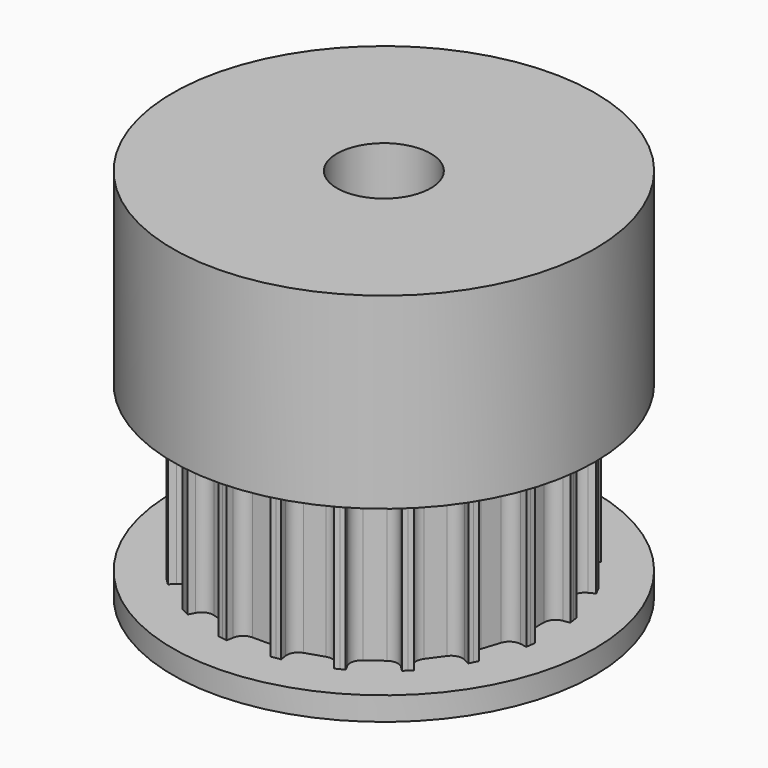
from build123d import *

# Parameters (mm, degrees)
F1_DEPTH = 3.5
F2_COUNT = 20
F3_R     = 9
F4_DEPTH = 1
F5_R     = 9
F6_DEPTH = 8
F8_D     = 4


with BuildPart() as f1:
    # F0 (on Top) → F1 (new body, symmetric)
    with BuildSketch(Plane.XY):
        with BuildLine():
            Line((-1.1357142162, 7.1706173527), (0, 0))
            Line((0, 0), (1.1357142162, 7.1706173527))
            Line((1.1357142162, 7.1706173527), (0.9381765481, 7.2019042457))
            Line((0.9381765481, 7.2019042457), (0.9377455173, 7.1991828248))
            Line((0.9377455173, 7.1991828248), (0.8938096645, 6.9217827675))
            ThreePointArc((0.8938096645, 6.9217827675), (0.7246895184, 6.6197970172), (0.3999654942, 6.5))
            Line((0.3999654942, 6.5), (0, 6.5))
            Line((0, 6.5), (-0.3999654942, 6.5))
            ThreePointArc((-0.3999654942, 6.5), (-0.7246895184, 6.6197970172), (-0.8938096645, 6.9217827675))
            Line((-0.8938096645, 6.9217827675), (-0.9381765481, 7.2019042457))
            Line((-0.9381765481, 7.2019042457), (-1.1357142162, 7.1706173527))
        make_face()
    extrude(amount=F1_DEPTH, both=True)

    # F2: F1 ×20 about axis
    f2_axis = Axis((0, 0, 0), (0, 0, -1))


with BuildPart() as f1_1:
    add(f1.part)
    for i in range(1, F2_COUNT):
        add(f1.part.rotate(f2_axis, i * 360 / F2_COUNT))

    # F3 (on face) → F4 (join)
    with BuildSketch(Plane(origin=(0, 0, -3.5), x_dir=(1, 0, 0), z_dir=(0, 0, -1))):
        Circle(F3_R)
        with BuildLine():
            Line((-0.9381765481, -7.2019042457), (-1.3332518843, -7.1393304597))
            Line((-1.3332518843, -7.1393304597), (-1.2888850008, -6.8592089815))
            ThreePointArc((-1.2888850008, -6.8592089815), (-1.3564090889, -6.5197424666), (-1.6282206739, -6.3054634908))
            Line((-1.6282206739, -6.3054634908), (-2.389000253, -6.058271221))
            ThreePointArc((-2.389000253, -6.058271221), (-2.7348504664, -6.0718597129), (-2.9890120123, -6.3068042293))
            Line((-2.9890120123, -6.3068042293), (-3.1177697233, -6.5595054656))
            Line((-3.1177697233, -6.5595054656), (-3.4741723329, -6.3779092657))
            Line((-3.4741723329, -6.3779092657), (-3.345414622, -6.1252080294))
            ThreePointArc((-3.345414622, -6.1252080294), (-3.3047329239, -5.7814900976), (-3.4970252579, -5.4937042824))
            Line((-3.4970252579, -5.4937042824), (-4.1441830219, -5.0235166445))
            ThreePointArc((-4.1441830219, -5.0235166445), (-4.4773051959, -4.9295664748), (-4.7916290386, -5.0744717511))
            Line((-4.7916290386, -5.0744717511), (-4.9921738752, -5.2750165877))
            Line((-4.9921738752, -5.2750165877), (-5.2750165877, -4.9921738752))
            Line((-5.2750165877, -4.9921738752), (-5.0744717511, -4.7916290386))
            ThreePointArc((-5.0744717511, -4.7916290386), (-4.9295664748, -4.4773051959), (-5.0235166445, -4.1441830219))
            Line((-5.0235166445, -4.1441830219), (-5.4937042824, -3.4970252579))
            ThreePointArc((-5.4937042824, -3.4970252579), (-5.7814900976, -3.3047329239), (-6.1252080294, -3.345414622))
            Line((-6.1252080294, -3.345414622), (-6.3779092657, -3.4741723329))
            Line((-6.3779092657, -3.4741723329), (-6.5595054656, -3.1177697233))
            Line((-6.5595054656, -3.1177697233), (-6.3068042293, -2.9890120123))
            ThreePointArc((-6.3068042293, -2.9890120123), (-6.0718597129, -2.7348504664), (-6.058271221, -2.389000253))
            Line((-6.058271221, -2.389000253), (-6.3054634908, -1.6282206739))
            ThreePointArc((-6.3054634908, -1.6282206739), (-6.5197424666, -1.3564090889), (-6.8592089815, -1.2888850008))
            Line((-6.8592089815, -1.2888850008), (-7.1393304597, -1.3332518843))
            Line((-7.1393304597, -1.3332518843), (-7.2019042457, -0.9381765481))
            Line((-7.2019042457, -0.9381765481), (-6.9217827675, -0.8938096645))
            ThreePointArc((-6.9217827675, -0.8938096645), (-6.6197970172, -0.7246895184), (-6.5, -0.3999654942))
            Line((-6.5, -0.3999654942), (-6.5, 0.3999654942))
            ThreePointArc((-6.5, 0.3999654942), (-6.6197970172, 0.7246895184), (-6.9217827675, 0.8938096645))
            Line((-6.9217827675, 0.8938096645), (-7.2019042457, 0.9381765481))
            Line((-7.2019042457, 0.9381765481), (-7.1393304597, 1.3332518843))
            Line((-7.1393304597, 1.3332518843), (-6.8592089815, 1.2888850008))
            ThreePointArc((-6.8592089815, 1.2888850008), (-6.5197424666, 1.3564090889), (-6.3054634908, 1.6282206739))
            Line((-6.3054634908, 1.6282206739), (-6.058271221, 2.389000253))
            ThreePointArc((-6.058271221, 2.389000253), (-6.0718597129, 2.7348504664), (-6.3068042293, 2.9890120123))
            Line((-6.3068042293, 2.9890120123), (-6.5595054656, 3.1177697233))
            Line((-6.5595054656, 3.1177697233), (-6.3779092657, 3.4741723329))
            Line((-6.3779092657, 3.4741723329), (-6.1252080294, 3.345414622))
            ThreePointArc((-6.1252080294, 3.345414622), (-5.7814900976, 3.3047329239), (-5.4937042824, 3.4970252579))
            Line((-5.4937042824, 3.4970252579), (-5.0235166445, 4.1441830219))
            ThreePointArc((-5.0235166445, 4.1441830219), (-4.9295664748, 4.4773051959), (-5.0744717511, 4.7916290386))
            Line((-5.0744717511, 4.7916290386), (-5.2750165877, 4.9921738752))
            Line((-5.2750165877, 4.9921738752), (-4.9921738752, 5.2750165877))
            Line((-4.9921738752, 5.2750165877), (-4.7916290386, 5.0744717511))
            ThreePointArc((-4.7916290386, 5.0744717511), (-4.4773051959, 4.9295664748), (-4.1441830219, 5.0235166445))
            Line((-4.1441830219, 5.0235166445), (-3.4970252579, 5.4937042824))
            ThreePointArc((-3.4970252579, 5.4937042824), (-3.3047329239, 5.7814900976), (-3.345414622, 6.1252080294))
            Line((-3.345414622, 6.1252080294), (-3.4741723329, 6.3779092657))
            Line((-3.4741723329, 6.3779092657), (-3.1177697233, 6.5595054656))
            Line((-3.1177697233, 6.5595054656), (-2.9890120123, 6.3068042293))
            ThreePointArc((-2.9890120123, 6.3068042293), (-2.7348504664, 6.0718597129), (-2.389000253, 6.058271221))
            Line((-2.389000253, 6.058271221), (-1.6282206739, 6.3054634908))
            ThreePointArc((-1.6282206739, 6.3054634908), (-1.3564090889, 6.5197424666), (-1.2888850008, 6.8592089815))
            Line((-1.2888850008, 6.8592089815), (-1.3332518843, 7.1393304597))
            Line((-1.3332518843, 7.1393304597), (-0.9381765481, 7.2019042457))
            Line((-0.9381765481, 7.2019042457), (-0.8938096645, 6.9217827675))
            ThreePointArc((-0.8938096645, 6.9217827675), (-0.7246895184, 6.6197970172), (-0.3999654942, 6.5))
            Line((-0.3999654942, 6.5), (0.3999654942, 6.5))
            ThreePointArc((0.3999654942, 6.5), (0.7246895184, 6.6197970172), (0.8938096645, 6.9217827675))
            Line((0.8938096645, 6.9217827675), (0.9381765481, 7.2019042457))
            Line((0.9381765481, 7.2019042457), (1.3332518843, 7.1393304597))
            Line((1.3332518843, 7.1393304597), (1.2888850008, 6.8592089815))
            ThreePointArc((1.2888850008, 6.8592089815), (1.3564090889, 6.5197424666), (1.6282206739, 6.3054634908))
            Line((1.6282206739, 6.3054634908), (2.389000253, 6.058271221))
            ThreePointArc((2.389000253, 6.058271221), (2.7348504664, 6.0718597129), (2.9890120123, 6.3068042293))
            Line((2.9890120123, 6.3068042293), (3.1177697233, 6.5595054656))
            Line((3.1177697233, 6.5595054656), (3.4741723329, 6.3779092657))
            Line((3.4741723329, 6.3779092657), (3.345414622, 6.1252080294))
            ThreePointArc((3.345414622, 6.1252080294), (3.3047329239, 5.7814900976), (3.4970252579, 5.4937042824))
            Line((3.4970252579, 5.4937042824), (4.1441830219, 5.0235166445))
            ThreePointArc((4.1441830219, 5.0235166445), (4.4773051959, 4.9295664748), (4.7916290386, 5.0744717511))
            Line((4.7916290386, 5.0744717511), (4.9921738752, 5.2750165877))
            Line((4.9921738752, 5.2750165877), (5.2750165877, 4.9921738752))
            Line((5.2750165877, 4.9921738752), (5.0744717511, 4.7916290386))
            ThreePointArc((5.0744717511, 4.7916290386), (4.9295664748, 4.4773051959), (5.0235166445, 4.1441830219))
            Line((5.0235166445, 4.1441830219), (5.4937042824, 3.4970252579))
            ThreePointArc((5.4937042824, 3.4970252579), (5.7814900976, 3.3047329239), (6.1252080294, 3.345414622))
            Line((6.1252080294, 3.345414622), (6.3779092657, 3.4741723329))
            Line((6.3779092657, 3.4741723329), (6.5595054656, 3.1177697233))
            Line((6.5595054656, 3.1177697233), (6.3068042293, 2.9890120123))
            ThreePointArc((6.3068042293, 2.9890120123), (6.0718597129, 2.7348504664), (6.058271221, 2.389000253))
            Line((6.058271221, 2.389000253), (6.3054634908, 1.6282206739))
            ThreePointArc((6.3054634908, 1.6282206739), (6.5197424666, 1.3564090889), (6.8592089815, 1.2888850008))
            Line((6.8592089815, 1.2888850008), (7.1393304597, 1.3332518843))
            Line((7.1393304597, 1.3332518843), (7.2019042457, 0.9381765481))
            Line((7.2019042457, 0.9381765481), (6.9217827675, 0.8938096645))
            ThreePointArc((6.9217827675, 0.8938096645), (6.6197970172, 0.7246895184), (6.5, 0.3999654942))
            Line((6.5, 0.3999654942), (6.5, -0.3999654942))
            ThreePointArc((6.5, -0.3999654942), (6.6197970172, -0.7246895184), (6.9217827675, -0.8938096645))
            Line((6.9217827675, -0.8938096645), (7.2019042457, -0.9381765481))
            Line((7.2019042457, -0.9381765481), (7.1393304597, -1.3332518843))
            Line((7.1393304597, -1.3332518843), (6.8592089815, -1.2888850008))
            ThreePointArc((6.8592089815, -1.2888850008), (6.5197424666, -1.3564090889), (6.3054634908, -1.6282206739))
            Line((6.3054634908, -1.6282206739), (6.058271221, -2.389000253))
            ThreePointArc((6.058271221, -2.389000253), (6.0718597129, -2.7348504664), (6.3068042293, -2.9890120123))
            Line((6.3068042293, -2.9890120123), (6.5595054656, -3.1177697233))
            Line((6.5595054656, -3.1177697233), (6.3779092657, -3.4741723329))
            Line((6.3779092657, -3.4741723329), (6.1252080294, -3.345414622))
            ThreePointArc((6.1252080294, -3.345414622), (5.7814900976, -3.3047329239), (5.4937042824, -3.4970252579))
            Line((5.4937042824, -3.4970252579), (5.0235166445, -4.1441830219))
            ThreePointArc((5.0235166445, -4.1441830219), (4.9295664748, -4.4773051959), (5.0744717511, -4.7916290386))
            Line((5.0744717511, -4.7916290386), (5.2750165877, -4.9921738752))
            Line((5.2750165877, -4.9921738752), (4.9921738752, -5.2750165877))
            Line((4.9921738752, -5.2750165877), (4.7916290386, -5.0744717511))
            ThreePointArc((4.7916290386, -5.0744717511), (4.4773051959, -4.9295664748), (4.1441830219, -5.0235166445))
            Line((4.1441830219, -5.0235166445), (3.4970252579, -5.4937042824))
            ThreePointArc((3.4970252579, -5.4937042824), (3.3047329239, -5.7814900976), (3.345414622, -6.1252080294))
            Line((3.345414622, -6.1252080294), (3.4741723329, -6.3779092657))
            Line((3.4741723329, -6.3779092657), (3.1177697233, -6.5595054656))
            Line((3.1177697233, -6.5595054656), (2.9890120123, -6.3068042293))
            ThreePointArc((2.9890120123, -6.3068042293), (2.7348504664, -6.0718597129), (2.389000253, -6.058271221))
            Line((2.389000253, -6.058271221), (1.6282206739, -6.3054634908))
            ThreePointArc((1.6282206739, -6.3054634908), (1.3564090889, -6.5197424666), (1.2888850008, -6.8592089815))
            Line((1.2888850008, -6.8592089815), (1.3332518843, -7.1393304597))
            Line((1.3332518843, -7.1393304597), (0.9381765481, -7.2019042457))
            Line((0.9381765481, -7.2019042457), (0.8938096645, -6.9217827675))
            ThreePointArc((0.8938096645, -6.9217827675), (0.7246895184, -6.6197970172), (0.3999654942, -6.5))
            Line((0.3999654942, -6.5), (-0.3999654942, -6.5))
            ThreePointArc((-0.3999654942, -6.5), (-0.7246895184, -6.6197970172), (-0.8938096645, -6.9217827675))
            Line((-0.8938096645, -6.9217827675), (-0.9381765481, -7.2019042457))
        make_face(mode=Mode.SUBTRACT)
        with BuildLine():
            Line((-1.2888850008, -6.8592089815), (-1.3332518843, -7.1393304597))
            Line((-1.3332518843, -7.1393304597), (-0.9381765481, -7.2019042457))
            Line((-0.9381765481, -7.2019042457), (-0.8938096645, -6.9217827675))
            ThreePointArc((-0.8938096645, -6.9217827675), (-0.7246895184, -6.6197970172), (-0.3999654942, -6.5))
            Line((-0.3999654942, -6.5), (0.3999654942, -6.5))
            ThreePointArc((0.3999654942, -6.5), (0.7246895184, -6.6197970172), (0.8938096645, -6.9217827675))
            Line((0.8938096645, -6.9217827675), (0.9381765481, -7.2019042457))
            Line((0.9381765481, -7.2019042457), (1.3332518843, -7.1393304597))
            Line((1.3332518843, -7.1393304597), (1.2888850008, -6.8592089815))
            ThreePointArc((1.2888850008, -6.8592089815), (1.3564090889, -6.5197424666), (1.6282206739, -6.3054634908))
            Line((1.6282206739, -6.3054634908), (2.389000253, -6.058271221))
            ThreePointArc((2.389000253, -6.058271221), (2.7348504664, -6.0718597129), (2.9890120123, -6.3068042293))
            Line((2.9890120123, -6.3068042293), (3.1177697233, -6.5595054656))
            Line((3.1177697233, -6.5595054656), (3.4741723329, -6.3779092657))
            Line((3.4741723329, -6.3779092657), (3.345414622, -6.1252080294))
            ThreePointArc((3.345414622, -6.1252080294), (3.3047329239, -5.7814900976), (3.4970252579, -5.4937042824))
            Line((3.4970252579, -5.4937042824), (4.1441830219, -5.0235166445))
            ThreePointArc((4.1441830219, -5.0235166445), (4.4773051959, -4.9295664748), (4.7916290386, -5.0744717511))
            Line((4.7916290386, -5.0744717511), (4.9921738752, -5.2750165877))
            Line((4.9921738752, -5.2750165877), (5.2750165877, -4.9921738752))
            Line((5.2750165877, -4.9921738752), (5.0744717511, -4.7916290386))
            ThreePointArc((5.0744717511, -4.7916290386), (4.9295664748, -4.4773051959), (5.0235166445, -4.1441830219))
            Line((5.0235166445, -4.1441830219), (5.4937042824, -3.4970252579))
            ThreePointArc((5.4937042824, -3.4970252579), (5.7814900976, -3.3047329239), (6.1252080294, -3.345414622))
            Line((6.1252080294, -3.345414622), (6.3779092657, -3.4741723329))
            Line((6.3779092657, -3.4741723329), (6.5595054656, -3.1177697233))
            Line((6.5595054656, -3.1177697233), (6.3068042293, -2.9890120123))
            ThreePointArc((6.3068042293, -2.9890120123), (6.0718597129, -2.7348504664), (6.058271221, -2.389000253))
            Line((6.058271221, -2.389000253), (6.3054634908, -1.6282206739))
            ThreePointArc((6.3054634908, -1.6282206739), (6.5197424666, -1.3564090889), (6.8592089815, -1.2888850008))
            Line((6.8592089815, -1.2888850008), (7.1393304597, -1.3332518843))
            Line((7.1393304597, -1.3332518843), (7.2019042457, -0.9381765481))
            Line((7.2019042457, -0.9381765481), (6.9217827675, -0.8938096645))
            ThreePointArc((6.9217827675, -0.8938096645), (6.6197970172, -0.7246895184), (6.5, -0.3999654942))
            Line((6.5, -0.3999654942), (6.5, 0.3999654942))
            ThreePointArc((6.5, 0.3999654942), (6.6197970172, 0.7246895184), (6.9217827675, 0.8938096645))
            Line((6.9217827675, 0.8938096645), (7.2019042457, 0.9381765481))
            Line((7.2019042457, 0.9381765481), (7.1393304597, 1.3332518843))
            Line((7.1393304597, 1.3332518843), (6.8592089815, 1.2888850008))
            ThreePointArc((6.8592089815, 1.2888850008), (6.5197424666, 1.3564090889), (6.3054634908, 1.6282206739))
            Line((6.3054634908, 1.6282206739), (6.058271221, 2.389000253))
            ThreePointArc((6.058271221, 2.389000253), (6.0718597129, 2.7348504664), (6.3068042293, 2.9890120123))
            Line((6.3068042293, 2.9890120123), (6.5595054656, 3.1177697233))
            Line((6.5595054656, 3.1177697233), (6.3779092657, 3.4741723329))
            Line((6.3779092657, 3.4741723329), (6.1252080294, 3.345414622))
            ThreePointArc((6.1252080294, 3.345414622), (5.7814900976, 3.3047329239), (5.4937042824, 3.4970252579))
            Line((5.4937042824, 3.4970252579), (5.0235166445, 4.1441830219))
            ThreePointArc((5.0235166445, 4.1441830219), (4.9295664748, 4.4773051959), (5.0744717511, 4.7916290386))
            Line((5.0744717511, 4.7916290386), (5.2750165877, 4.9921738752))
            Line((5.2750165877, 4.9921738752), (4.9921738752, 5.2750165877))
            Line((4.9921738752, 5.2750165877), (4.7916290386, 5.0744717511))
            ThreePointArc((4.7916290386, 5.0744717511), (4.4773051959, 4.9295664748), (4.1441830219, 5.0235166445))
            Line((4.1441830219, 5.0235166445), (3.4970252579, 5.4937042824))
            ThreePointArc((3.4970252579, 5.4937042824), (3.3047329239, 5.7814900976), (3.345414622, 6.1252080294))
            Line((3.345414622, 6.1252080294), (3.4741723329, 6.3779092657))
            Line((3.4741723329, 6.3779092657), (3.1177697233, 6.5595054656))
            Line((3.1177697233, 6.5595054656), (2.9890120123, 6.3068042293))
            ThreePointArc((2.9890120123, 6.3068042293), (2.7348504664, 6.0718597129), (2.389000253, 6.058271221))
            Line((2.389000253, 6.058271221), (1.6282206739, 6.3054634908))
            ThreePointArc((1.6282206739, 6.3054634908), (1.3564090889, 6.5197424666), (1.2888850008, 6.8592089815))
            Line((1.2888850008, 6.8592089815), (1.3332518843, 7.1393304597))
            Line((1.3332518843, 7.1393304597), (0.9381765481, 7.2019042457))
            Line((0.9381765481, 7.2019042457), (0.8938096645, 6.9217827675))
            ThreePointArc((0.8938096645, 6.9217827675), (0.7246895184, 6.6197970172), (0.3999654942, 6.5))
            Line((0.3999654942, 6.5), (-0.3999654942, 6.5))
            ThreePointArc((-0.3999654942, 6.5), (-0.7246895184, 6.6197970172), (-0.8938096645, 6.9217827675))
            Line((-0.8938096645, 6.9217827675), (-0.9381765481, 7.2019042457))
            Line((-0.9381765481, 7.2019042457), (-1.3332518843, 7.1393304597))
            Line((-1.3332518843, 7.1393304597), (-1.2888850008, 6.8592089815))
            ThreePointArc((-1.2888850008, 6.8592089815), (-1.3564090889, 6.5197424666), (-1.6282206739, 6.3054634908))
            Line((-1.6282206739, 6.3054634908), (-2.389000253, 6.058271221))
            ThreePointArc((-2.389000253, 6.058271221), (-2.7348504664, 6.0718597129), (-2.9890120123, 6.3068042293))
            Line((-2.9890120123, 6.3068042293), (-3.1177697233, 6.5595054656))
            Line((-3.1177697233, 6.5595054656), (-3.4741723329, 6.3779092657))
            Line((-3.4741723329, 6.3779092657), (-3.345414622, 6.1252080294))
            ThreePointArc((-3.345414622, 6.1252080294), (-3.3047329239, 5.7814900976), (-3.4970252579, 5.4937042824))
            Line((-3.4970252579, 5.4937042824), (-4.1441830219, 5.0235166445))
            ThreePointArc((-4.1441830219, 5.0235166445), (-4.4773051959, 4.9295664748), (-4.7916290386, 5.0744717511))
            Line((-4.7916290386, 5.0744717511), (-4.9921738752, 5.2750165877))
            Line((-4.9921738752, 5.2750165877), (-5.2750165877, 4.9921738752))
            Line((-5.2750165877, 4.9921738752), (-5.0744717511, 4.7916290386))
            ThreePointArc((-5.0744717511, 4.7916290386), (-4.9295664748, 4.4773051959), (-5.0235166445, 4.1441830219))
            Line((-5.0235166445, 4.1441830219), (-5.4937042824, 3.4970252579))
            ThreePointArc((-5.4937042824, 3.4970252579), (-5.7814900976, 3.3047329239), (-6.1252080294, 3.345414622))
            Line((-6.1252080294, 3.345414622), (-6.3779092657, 3.4741723329))
            Line((-6.3779092657, 3.4741723329), (-6.5595054656, 3.1177697233))
            Line((-6.5595054656, 3.1177697233), (-6.3068042293, 2.9890120123))
            ThreePointArc((-6.3068042293, 2.9890120123), (-6.0718597129, 2.7348504664), (-6.058271221, 2.389000253))
            Line((-6.058271221, 2.389000253), (-6.3054634908, 1.6282206739))
            ThreePointArc((-6.3054634908, 1.6282206739), (-6.5197424666, 1.3564090889), (-6.8592089815, 1.2888850008))
            Line((-6.8592089815, 1.2888850008), (-7.1393304597, 1.3332518843))
            Line((-7.1393304597, 1.3332518843), (-7.2019042457, 0.9381765481))
            Line((-7.2019042457, 0.9381765481), (-6.9217827675, 0.8938096645))
            ThreePointArc((-6.9217827675, 0.8938096645), (-6.6197970172, 0.7246895184), (-6.5, 0.3999654942))
            Line((-6.5, 0.3999654942), (-6.5, -0.3999654942))
            ThreePointArc((-6.5, -0.3999654942), (-6.6197970172, -0.7246895184), (-6.9217827675, -0.8938096645))
            Line((-6.9217827675, -0.8938096645), (-7.2019042457, -0.9381765481))
            Line((-7.2019042457, -0.9381765481), (-7.1393304597, -1.3332518843))
            Line((-7.1393304597, -1.3332518843), (-6.8592089815, -1.2888850008))
            ThreePointArc((-6.8592089815, -1.2888850008), (-6.5197424666, -1.3564090889), (-6.3054634908, -1.6282206739))
            Line((-6.3054634908, -1.6282206739), (-6.058271221, -2.389000253))
            ThreePointArc((-6.058271221, -2.389000253), (-6.0718597129, -2.7348504664), (-6.3068042293, -2.9890120123))
            Line((-6.3068042293, -2.9890120123), (-6.5595054656, -3.1177697233))
            Line((-6.5595054656, -3.1177697233), (-6.3779092657, -3.4741723329))
            Line((-6.3779092657, -3.4741723329), (-6.1252080294, -3.345414622))
            ThreePointArc((-6.1252080294, -3.345414622), (-5.7814900976, -3.3047329239), (-5.4937042824, -3.4970252579))
            Line((-5.4937042824, -3.4970252579), (-5.0235166445, -4.1441830219))
            ThreePointArc((-5.0235166445, -4.1441830219), (-4.9295664748, -4.4773051959), (-5.0744717511, -4.7916290386))
            Line((-5.0744717511, -4.7916290386), (-5.2750165877, -4.9921738752))
            Line((-5.2750165877, -4.9921738752), (-4.9921738752, -5.2750165877))
            Line((-4.9921738752, -5.2750165877), (-4.7916290386, -5.0744717511))
            ThreePointArc((-4.7916290386, -5.0744717511), (-4.4773051959, -4.9295664748), (-4.1441830219, -5.0235166445))
            Line((-4.1441830219, -5.0235166445), (-3.4970252579, -5.4937042824))
            ThreePointArc((-3.4970252579, -5.4937042824), (-3.3047329239, -5.7814900976), (-3.345414622, -6.1252080294))
            Line((-3.345414622, -6.1252080294), (-3.4741723329, -6.3779092657))
            Line((-3.4741723329, -6.3779092657), (-3.1177697233, -6.5595054656))
            Line((-3.1177697233, -6.5595054656), (-2.9890120123, -6.3068042293))
            ThreePointArc((-2.9890120123, -6.3068042293), (-2.7348504664, -6.0718597129), (-2.389000253, -6.058271221))
            Line((-2.389000253, -6.058271221), (-1.6282206739, -6.3054634908))
            ThreePointArc((-1.6282206739, -6.3054634908), (-1.3564090889, -6.5197424666), (-1.2888850008, -6.8592089815))
        make_face()
    extrude(amount=F4_DEPTH)

    # F5 (on face) → F6 (join)
    with BuildSketch(Plane.XY.offset(3.5)):
        Circle(F5_R)
        with BuildLine():
            Line((-1.3332518843, 7.1393304597), (-0.9381765481, 7.2019042457))
            Line((-0.9381765481, 7.2019042457), (-0.8938096645, 6.9217827675))
            ThreePointArc((-0.8938096645, 6.9217827675), (-0.7246895184, 6.6197970172), (-0.3999654942, 6.5))
            Line((-0.3999654942, 6.5), (0.3999654942, 6.5))
            ThreePointArc((0.3999654942, 6.5), (0.7246895184, 6.6197970172), (0.8938096645, 6.9217827675))
            Line((0.8938096645, 6.9217827675), (0.9381765481, 7.2019042457))
            Line((0.9381765481, 7.2019042457), (1.3332518843, 7.1393304597))
            Line((1.3332518843, 7.1393304597), (1.2888850008, 6.8592089815))
            ThreePointArc((1.2888850008, 6.8592089815), (1.3564090889, 6.5197424666), (1.6282206739, 6.3054634908))
            Line((1.6282206739, 6.3054634908), (2.389000253, 6.058271221))
            ThreePointArc((2.389000253, 6.058271221), (2.7348504664, 6.0718597129), (2.9890120123, 6.3068042293))
            Line((2.9890120123, 6.3068042293), (3.1177697233, 6.5595054656))
            Line((3.1177697233, 6.5595054656), (3.4741723329, 6.3779092657))
            Line((3.4741723329, 6.3779092657), (3.345414622, 6.1252080294))
            ThreePointArc((3.345414622, 6.1252080294), (3.3047329239, 5.7814900976), (3.4970252579, 5.4937042824))
            Line((3.4970252579, 5.4937042824), (4.1441830219, 5.0235166445))
            ThreePointArc((4.1441830219, 5.0235166445), (4.4773051959, 4.9295664748), (4.7916290386, 5.0744717511))
            Line((4.7916290386, 5.0744717511), (4.9921738752, 5.2750165877))
            Line((4.9921738752, 5.2750165877), (5.2750165877, 4.9921738752))
            Line((5.2750165877, 4.9921738752), (5.0744717511, 4.7916290386))
            ThreePointArc((5.0744717511, 4.7916290386), (4.9295664748, 4.4773051959), (5.0235166445, 4.1441830219))
            Line((5.0235166445, 4.1441830219), (5.4937042824, 3.4970252579))
            ThreePointArc((5.4937042824, 3.4970252579), (5.7814900976, 3.3047329239), (6.1252080294, 3.345414622))
            Line((6.1252080294, 3.345414622), (6.3779092657, 3.4741723329))
            Line((6.3779092657, 3.4741723329), (6.5595054656, 3.1177697233))
            Line((6.5595054656, 3.1177697233), (6.3068042293, 2.9890120123))
            ThreePointArc((6.3068042293, 2.9890120123), (6.0718597129, 2.7348504664), (6.058271221, 2.389000253))
            Line((6.058271221, 2.389000253), (6.3054634908, 1.6282206739))
            ThreePointArc((6.3054634908, 1.6282206739), (6.5197424666, 1.3564090889), (6.8592089815, 1.2888850008))
            Line((6.8592089815, 1.2888850008), (7.1393304597, 1.3332518843))
            Line((7.1393304597, 1.3332518843), (7.2019042457, 0.9381765481))
            Line((7.2019042457, 0.9381765481), (6.9217827675, 0.8938096645))
            ThreePointArc((6.9217827675, 0.8938096645), (6.6197970172, 0.7246895184), (6.5, 0.3999654942))
            Line((6.5, 0.3999654942), (6.5, -0.3999654942))
            ThreePointArc((6.5, -0.3999654942), (6.6197970172, -0.7246895184), (6.9217827675, -0.8938096645))
            Line((6.9217827675, -0.8938096645), (7.2019042457, -0.9381765481))
            Line((7.2019042457, -0.9381765481), (7.1393304597, -1.3332518843))
            Line((7.1393304597, -1.3332518843), (6.8592089815, -1.2888850008))
            ThreePointArc((6.8592089815, -1.2888850008), (6.5197424666, -1.3564090889), (6.3054634908, -1.6282206739))
            Line((6.3054634908, -1.6282206739), (6.058271221, -2.389000253))
            ThreePointArc((6.058271221, -2.389000253), (6.0718597129, -2.7348504664), (6.3068042293, -2.9890120123))
            Line((6.3068042293, -2.9890120123), (6.5595054656, -3.1177697233))
            Line((6.5595054656, -3.1177697233), (6.3779092657, -3.4741723329))
            Line((6.3779092657, -3.4741723329), (6.1252080294, -3.345414622))
            ThreePointArc((6.1252080294, -3.345414622), (5.7814900976, -3.3047329239), (5.4937042824, -3.4970252579))
            Line((5.4937042824, -3.4970252579), (5.0235166445, -4.1441830219))
            ThreePointArc((5.0235166445, -4.1441830219), (4.9295664748, -4.4773051959), (5.0744717511, -4.7916290386))
            Line((5.0744717511, -4.7916290386), (5.2750165877, -4.9921738752))
            Line((5.2750165877, -4.9921738752), (4.9921738752, -5.2750165877))
            Line((4.9921738752, -5.2750165877), (4.7916290386, -5.0744717511))
            ThreePointArc((4.7916290386, -5.0744717511), (4.4773051959, -4.9295664748), (4.1441830219, -5.0235166445))
            Line((4.1441830219, -5.0235166445), (3.4970252579, -5.4937042824))
            ThreePointArc((3.4970252579, -5.4937042824), (3.3047329239, -5.7814900976), (3.345414622, -6.1252080294))
            Line((3.345414622, -6.1252080294), (3.4741723329, -6.3779092657))
            Line((3.4741723329, -6.3779092657), (3.1177697233, -6.5595054656))
            Line((3.1177697233, -6.5595054656), (2.9890120123, -6.3068042293))
            ThreePointArc((2.9890120123, -6.3068042293), (2.7348504664, -6.0718597129), (2.389000253, -6.058271221))
            Line((2.389000253, -6.058271221), (1.6282206739, -6.3054634908))
            ThreePointArc((1.6282206739, -6.3054634908), (1.3564090889, -6.5197424666), (1.2888850008, -6.8592089815))
            Line((1.2888850008, -6.8592089815), (1.3332518843, -7.1393304597))
            Line((1.3332518843, -7.1393304597), (0.9381765481, -7.2019042457))
            Line((0.9381765481, -7.2019042457), (0.8938096645, -6.9217827675))
            ThreePointArc((0.8938096645, -6.9217827675), (0.7246895184, -6.6197970172), (0.3999654942, -6.5))
            Line((0.3999654942, -6.5), (-0.3999654942, -6.5))
            ThreePointArc((-0.3999654942, -6.5), (-0.7246895184, -6.6197970172), (-0.8938096645, -6.9217827675))
            Line((-0.8938096645, -6.9217827675), (-0.9381765481, -7.2019042457))
            Line((-0.9381765481, -7.2019042457), (-1.3332518843, -7.1393304597))
            Line((-1.3332518843, -7.1393304597), (-1.2888850008, -6.8592089815))
            ThreePointArc((-1.2888850008, -6.8592089815), (-1.3564090889, -6.5197424666), (-1.6282206739, -6.3054634908))
            Line((-1.6282206739, -6.3054634908), (-2.389000253, -6.058271221))
            ThreePointArc((-2.389000253, -6.058271221), (-2.7348504664, -6.0718597129), (-2.9890120123, -6.3068042293))
            Line((-2.9890120123, -6.3068042293), (-3.1177697233, -6.5595054656))
            Line((-3.1177697233, -6.5595054656), (-3.4741723329, -6.3779092657))
            Line((-3.4741723329, -6.3779092657), (-3.345414622, -6.1252080294))
            ThreePointArc((-3.345414622, -6.1252080294), (-3.3047329239, -5.7814900976), (-3.4970252579, -5.4937042824))
            Line((-3.4970252579, -5.4937042824), (-4.1441830219, -5.0235166445))
            ThreePointArc((-4.1441830219, -5.0235166445), (-4.4773051959, -4.9295664748), (-4.7916290386, -5.0744717511))
            Line((-4.7916290386, -5.0744717511), (-4.9921738752, -5.2750165877))
            Line((-4.9921738752, -5.2750165877), (-5.2750165877, -4.9921738752))
            Line((-5.2750165877, -4.9921738752), (-5.0744717511, -4.7916290386))
            ThreePointArc((-5.0744717511, -4.7916290386), (-4.9295664748, -4.4773051959), (-5.0235166445, -4.1441830219))
            Line((-5.0235166445, -4.1441830219), (-5.4937042824, -3.4970252579))
            ThreePointArc((-5.4937042824, -3.4970252579), (-5.7814900976, -3.3047329239), (-6.1252080294, -3.345414622))
            Line((-6.1252080294, -3.345414622), (-6.3779092657, -3.4741723329))
            Line((-6.3779092657, -3.4741723329), (-6.5595054656, -3.1177697233))
            Line((-6.5595054656, -3.1177697233), (-6.3068042293, -2.9890120123))
            ThreePointArc((-6.3068042293, -2.9890120123), (-6.0718597129, -2.7348504664), (-6.058271221, -2.389000253))
            Line((-6.058271221, -2.389000253), (-6.3054634908, -1.6282206739))
            ThreePointArc((-6.3054634908, -1.6282206739), (-6.5197424666, -1.3564090889), (-6.8592089815, -1.2888850008))
            Line((-6.8592089815, -1.2888850008), (-7.1393304597, -1.3332518843))
            Line((-7.1393304597, -1.3332518843), (-7.2019042457, -0.9381765481))
            Line((-7.2019042457, -0.9381765481), (-6.9217827675, -0.8938096645))
            ThreePointArc((-6.9217827675, -0.8938096645), (-6.6197970172, -0.7246895184), (-6.5, -0.3999654942))
            Line((-6.5, -0.3999654942), (-6.5, 0.3999654942))
            ThreePointArc((-6.5, 0.3999654942), (-6.6197970172, 0.7246895184), (-6.9217827675, 0.8938096645))
            Line((-6.9217827675, 0.8938096645), (-7.2019042457, 0.9381765481))
            Line((-7.2019042457, 0.9381765481), (-7.1393304597, 1.3332518843))
            Line((-7.1393304597, 1.3332518843), (-6.8592089815, 1.2888850008))
            ThreePointArc((-6.8592089815, 1.2888850008), (-6.5197424666, 1.3564090889), (-6.3054634908, 1.6282206739))
            Line((-6.3054634908, 1.6282206739), (-6.058271221, 2.389000253))
            ThreePointArc((-6.058271221, 2.389000253), (-6.0718597129, 2.7348504664), (-6.3068042293, 2.9890120123))
            Line((-6.3068042293, 2.9890120123), (-6.5595054656, 3.1177697233))
            Line((-6.5595054656, 3.1177697233), (-6.3779092657, 3.4741723329))
            Line((-6.3779092657, 3.4741723329), (-6.1252080294, 3.345414622))
            ThreePointArc((-6.1252080294, 3.345414622), (-5.7814900976, 3.3047329239), (-5.4937042824, 3.4970252579))
            Line((-5.4937042824, 3.4970252579), (-5.0235166445, 4.1441830219))
            ThreePointArc((-5.0235166445, 4.1441830219), (-4.9295664748, 4.4773051959), (-5.0744717511, 4.7916290386))
            Line((-5.0744717511, 4.7916290386), (-5.2750165877, 4.9921738752))
            Line((-5.2750165877, 4.9921738752), (-4.9921738752, 5.2750165877))
            Line((-4.9921738752, 5.2750165877), (-4.7916290386, 5.0744717511))
            ThreePointArc((-4.7916290386, 5.0744717511), (-4.4773051959, 4.9295664748), (-4.1441830219, 5.0235166445))
            Line((-4.1441830219, 5.0235166445), (-3.4970252579, 5.4937042824))
            ThreePointArc((-3.4970252579, 5.4937042824), (-3.3047329239, 5.7814900976), (-3.345414622, 6.1252080294))
            Line((-3.345414622, 6.1252080294), (-3.4741723329, 6.3779092657))
            Line((-3.4741723329, 6.3779092657), (-3.1177697233, 6.5595054656))
            Line((-3.1177697233, 6.5595054656), (-2.9890120123, 6.3068042293))
            ThreePointArc((-2.9890120123, 6.3068042293), (-2.7348504664, 6.0718597129), (-2.389000253, 6.058271221))
            Line((-2.389000253, 6.058271221), (-1.6282206739, 6.3054634908))
            ThreePointArc((-1.6282206739, 6.3054634908), (-1.3564090889, 6.5197424666), (-1.2888850008, 6.8592089815))
            Line((-1.2888850008, 6.8592089815), (-1.3332518843, 7.1393304597))
        make_face(mode=Mode.SUBTRACT)
        with BuildLine():
            Line((-0.8938096645, 6.9217827675), (-0.9381765481, 7.2019042457))
            Line((-0.9381765481, 7.2019042457), (-1.3332518843, 7.1393304597))
            Line((-1.3332518843, 7.1393304597), (-1.2888850008, 6.8592089815))
            ThreePointArc((-1.2888850008, 6.8592089815), (-1.3564090889, 6.5197424666), (-1.6282206739, 6.3054634908))
            Line((-1.6282206739, 6.3054634908), (-2.389000253, 6.058271221))
            ThreePointArc((-2.389000253, 6.058271221), (-2.7348504664, 6.0718597129), (-2.9890120123, 6.3068042293))
            Line((-2.9890120123, 6.3068042293), (-3.1177697233, 6.5595054656))
            Line((-3.1177697233, 6.5595054656), (-3.4741723329, 6.3779092657))
            Line((-3.4741723329, 6.3779092657), (-3.345414622, 6.1252080294))
            ThreePointArc((-3.345414622, 6.1252080294), (-3.3047329239, 5.7814900976), (-3.4970252579, 5.4937042824))
            Line((-3.4970252579, 5.4937042824), (-4.1441830219, 5.0235166445))
            ThreePointArc((-4.1441830219, 5.0235166445), (-4.4773051959, 4.9295664748), (-4.7916290386, 5.0744717511))
            Line((-4.7916290386, 5.0744717511), (-4.9921738752, 5.2750165877))
            Line((-4.9921738752, 5.2750165877), (-5.2750165877, 4.9921738752))
            Line((-5.2750165877, 4.9921738752), (-5.0744717511, 4.7916290386))
            ThreePointArc((-5.0744717511, 4.7916290386), (-4.9295664748, 4.4773051959), (-5.0235166445, 4.1441830219))
            Line((-5.0235166445, 4.1441830219), (-5.4937042824, 3.4970252579))
            ThreePointArc((-5.4937042824, 3.4970252579), (-5.7814900976, 3.3047329239), (-6.1252080294, 3.345414622))
            Line((-6.1252080294, 3.345414622), (-6.3779092657, 3.4741723329))
            Line((-6.3779092657, 3.4741723329), (-6.5595054656, 3.1177697233))
            Line((-6.5595054656, 3.1177697233), (-6.3068042293, 2.9890120123))
            ThreePointArc((-6.3068042293, 2.9890120123), (-6.0718597129, 2.7348504664), (-6.058271221, 2.389000253))
            Line((-6.058271221, 2.389000253), (-6.3054634908, 1.6282206739))
            ThreePointArc((-6.3054634908, 1.6282206739), (-6.5197424666, 1.3564090889), (-6.8592089815, 1.2888850008))
            Line((-6.8592089815, 1.2888850008), (-7.1393304597, 1.3332518843))
            Line((-7.1393304597, 1.3332518843), (-7.2019042457, 0.9381765481))
            Line((-7.2019042457, 0.9381765481), (-6.9217827675, 0.8938096645))
            ThreePointArc((-6.9217827675, 0.8938096645), (-6.6197970172, 0.7246895184), (-6.5, 0.3999654942))
            Line((-6.5, 0.3999654942), (-6.5, -0.3999654942))
            ThreePointArc((-6.5, -0.3999654942), (-6.6197970172, -0.7246895184), (-6.9217827675, -0.8938096645))
            Line((-6.9217827675, -0.8938096645), (-7.2019042457, -0.9381765481))
            Line((-7.2019042457, -0.9381765481), (-7.1393304597, -1.3332518843))
            Line((-7.1393304597, -1.3332518843), (-6.8592089815, -1.2888850008))
            ThreePointArc((-6.8592089815, -1.2888850008), (-6.5197424666, -1.3564090889), (-6.3054634908, -1.6282206739))
            Line((-6.3054634908, -1.6282206739), (-6.058271221, -2.389000253))
            ThreePointArc((-6.058271221, -2.389000253), (-6.0718597129, -2.7348504664), (-6.3068042293, -2.9890120123))
            Line((-6.3068042293, -2.9890120123), (-6.5595054656, -3.1177697233))
            Line((-6.5595054656, -3.1177697233), (-6.3779092657, -3.4741723329))
            Line((-6.3779092657, -3.4741723329), (-6.1252080294, -3.345414622))
            ThreePointArc((-6.1252080294, -3.345414622), (-5.7814900976, -3.3047329239), (-5.4937042824, -3.4970252579))
            Line((-5.4937042824, -3.4970252579), (-5.0235166445, -4.1441830219))
            ThreePointArc((-5.0235166445, -4.1441830219), (-4.9295664748, -4.4773051959), (-5.0744717511, -4.7916290386))
            Line((-5.0744717511, -4.7916290386), (-5.2750165877, -4.9921738752))
            Line((-5.2750165877, -4.9921738752), (-4.9921738752, -5.2750165877))
            Line((-4.9921738752, -5.2750165877), (-4.7916290386, -5.0744717511))
            ThreePointArc((-4.7916290386, -5.0744717511), (-4.4773051959, -4.9295664748), (-4.1441830219, -5.0235166445))
            Line((-4.1441830219, -5.0235166445), (-3.4970252579, -5.4937042824))
            ThreePointArc((-3.4970252579, -5.4937042824), (-3.3047329239, -5.7814900976), (-3.345414622, -6.1252080294))
            Line((-3.345414622, -6.1252080294), (-3.4741723329, -6.3779092657))
            Line((-3.4741723329, -6.3779092657), (-3.1177697233, -6.5595054656))
            Line((-3.1177697233, -6.5595054656), (-2.9890120123, -6.3068042293))
            ThreePointArc((-2.9890120123, -6.3068042293), (-2.7348504664, -6.0718597129), (-2.389000253, -6.058271221))
            Line((-2.389000253, -6.058271221), (-1.6282206739, -6.3054634908))
            ThreePointArc((-1.6282206739, -6.3054634908), (-1.3564090889, -6.5197424666), (-1.2888850008, -6.8592089815))
            Line((-1.2888850008, -6.8592089815), (-1.3332518843, -7.1393304597))
            Line((-1.3332518843, -7.1393304597), (-0.9381765481, -7.2019042457))
            Line((-0.9381765481, -7.2019042457), (-0.8938096645, -6.9217827675))
            ThreePointArc((-0.8938096645, -6.9217827675), (-0.7246895184, -6.6197970172), (-0.3999654942, -6.5))
            Line((-0.3999654942, -6.5), (0.3999654942, -6.5))
            ThreePointArc((0.3999654942, -6.5), (0.7246895184, -6.6197970172), (0.8938096645, -6.9217827675))
            Line((0.8938096645, -6.9217827675), (0.9381765481, -7.2019042457))
            Line((0.9381765481, -7.2019042457), (1.3332518843, -7.1393304597))
            Line((1.3332518843, -7.1393304597), (1.2888850008, -6.8592089815))
            ThreePointArc((1.2888850008, -6.8592089815), (1.3564090889, -6.5197424666), (1.6282206739, -6.3054634908))
            Line((1.6282206739, -6.3054634908), (2.389000253, -6.058271221))
            ThreePointArc((2.389000253, -6.058271221), (2.7348504664, -6.0718597129), (2.9890120123, -6.3068042293))
            Line((2.9890120123, -6.3068042293), (3.1177697233, -6.5595054656))
            Line((3.1177697233, -6.5595054656), (3.4741723329, -6.3779092657))
            Line((3.4741723329, -6.3779092657), (3.345414622, -6.1252080294))
            ThreePointArc((3.345414622, -6.1252080294), (3.3047329239, -5.7814900976), (3.4970252579, -5.4937042824))
            Line((3.4970252579, -5.4937042824), (4.1441830219, -5.0235166445))
            ThreePointArc((4.1441830219, -5.0235166445), (4.4773051959, -4.9295664748), (4.7916290386, -5.0744717511))
            Line((4.7916290386, -5.0744717511), (4.9921738752, -5.2750165877))
            Line((4.9921738752, -5.2750165877), (5.2750165877, -4.9921738752))
            Line((5.2750165877, -4.9921738752), (5.0744717511, -4.7916290386))
            ThreePointArc((5.0744717511, -4.7916290386), (4.9295664748, -4.4773051959), (5.0235166445, -4.1441830219))
            Line((5.0235166445, -4.1441830219), (5.4937042824, -3.4970252579))
            ThreePointArc((5.4937042824, -3.4970252579), (5.7814900976, -3.3047329239), (6.1252080294, -3.345414622))
            Line((6.1252080294, -3.345414622), (6.3779092657, -3.4741723329))
            Line((6.3779092657, -3.4741723329), (6.5595054656, -3.1177697233))
            Line((6.5595054656, -3.1177697233), (6.3068042293, -2.9890120123))
            ThreePointArc((6.3068042293, -2.9890120123), (6.0718597129, -2.7348504664), (6.058271221, -2.389000253))
            Line((6.058271221, -2.389000253), (6.3054634908, -1.6282206739))
            ThreePointArc((6.3054634908, -1.6282206739), (6.5197424666, -1.3564090889), (6.8592089815, -1.2888850008))
            Line((6.8592089815, -1.2888850008), (7.1393304597, -1.3332518843))
            Line((7.1393304597, -1.3332518843), (7.2019042457, -0.9381765481))
            Line((7.2019042457, -0.9381765481), (6.9217827675, -0.8938096645))
            ThreePointArc((6.9217827675, -0.8938096645), (6.6197970172, -0.7246895184), (6.5, -0.3999654942))
            Line((6.5, -0.3999654942), (6.5, 0.3999654942))
            ThreePointArc((6.5, 0.3999654942), (6.6197970172, 0.7246895184), (6.9217827675, 0.8938096645))
            Line((6.9217827675, 0.8938096645), (7.2019042457, 0.9381765481))
            Line((7.2019042457, 0.9381765481), (7.1393304597, 1.3332518843))
            Line((7.1393304597, 1.3332518843), (6.8592089815, 1.2888850008))
            ThreePointArc((6.8592089815, 1.2888850008), (6.5197424666, 1.3564090889), (6.3054634908, 1.6282206739))
            Line((6.3054634908, 1.6282206739), (6.058271221, 2.389000253))
            ThreePointArc((6.058271221, 2.389000253), (6.0718597129, 2.7348504664), (6.3068042293, 2.9890120123))
            Line((6.3068042293, 2.9890120123), (6.5595054656, 3.1177697233))
            Line((6.5595054656, 3.1177697233), (6.3779092657, 3.4741723329))
            Line((6.3779092657, 3.4741723329), (6.1252080294, 3.345414622))
            ThreePointArc((6.1252080294, 3.345414622), (5.7814900976, 3.3047329239), (5.4937042824, 3.4970252579))
            Line((5.4937042824, 3.4970252579), (5.0235166445, 4.1441830219))
            ThreePointArc((5.0235166445, 4.1441830219), (4.9295664748, 4.4773051959), (5.0744717511, 4.7916290386))
            Line((5.0744717511, 4.7916290386), (5.2750165877, 4.9921738752))
            Line((5.2750165877, 4.9921738752), (4.9921738752, 5.2750165877))
            Line((4.9921738752, 5.2750165877), (4.7916290386, 5.0744717511))
            ThreePointArc((4.7916290386, 5.0744717511), (4.4773051959, 4.9295664748), (4.1441830219, 5.0235166445))
            Line((4.1441830219, 5.0235166445), (3.4970252579, 5.4937042824))
            ThreePointArc((3.4970252579, 5.4937042824), (3.3047329239, 5.7814900976), (3.345414622, 6.1252080294))
            Line((3.345414622, 6.1252080294), (3.4741723329, 6.3779092657))
            Line((3.4741723329, 6.3779092657), (3.1177697233, 6.5595054656))
            Line((3.1177697233, 6.5595054656), (2.9890120123, 6.3068042293))
            ThreePointArc((2.9890120123, 6.3068042293), (2.7348504664, 6.0718597129), (2.389000253, 6.058271221))
            Line((2.389000253, 6.058271221), (1.6282206739, 6.3054634908))
            ThreePointArc((1.6282206739, 6.3054634908), (1.3564090889, 6.5197424666), (1.2888850008, 6.8592089815))
            Line((1.2888850008, 6.8592089815), (1.3332518843, 7.1393304597))
            Line((1.3332518843, 7.1393304597), (0.9381765481, 7.2019042457))
            Line((0.9381765481, 7.2019042457), (0.8938096645, 6.9217827675))
            ThreePointArc((0.8938096645, 6.9217827675), (0.7246895184, 6.6197970172), (0.3999654942, 6.5))
            Line((0.3999654942, 6.5), (-0.3999654942, 6.5))
            ThreePointArc((-0.3999654942, 6.5), (-0.7246895184, 6.6197970172), (-0.8938096645, 6.9217827675))
        make_face()
    extrude(amount=F6_DEPTH)

    # F8 (through all)
    with Locations(Plane.XY.offset(11.5)):
        with Locations((0, 0)):
            Hole(F8_D / 2)


solid = f1_1.part
